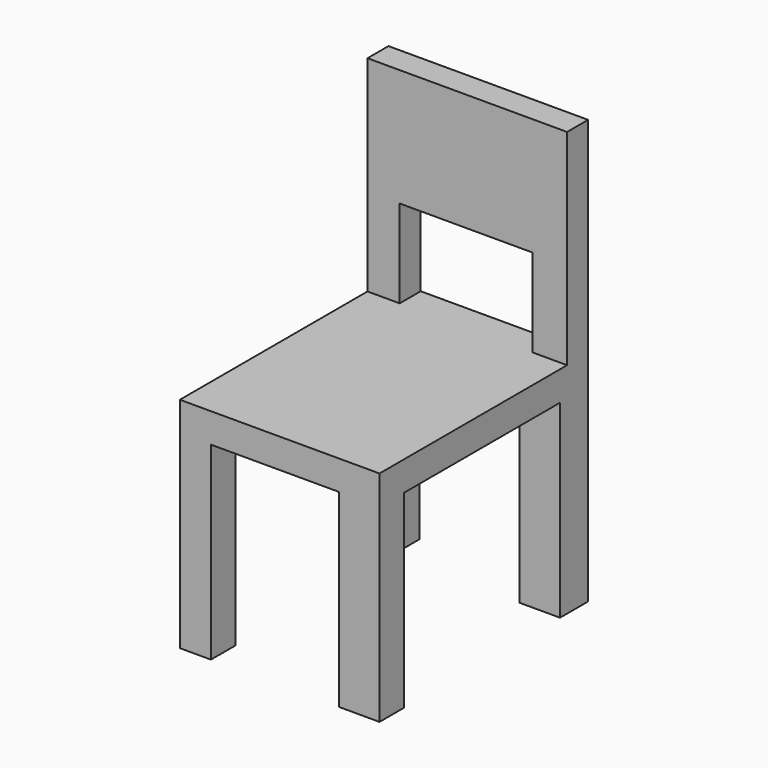
from build123d import *

# Parameters (mm, degrees)
F0_W     = 86.1037485301
F0_H     = 112.4806329608
F1_DEPTH = 12.7
F2_W     = 13.9083378017
F2_H     = 11.3344117999
F2_W_2   = 14.853797853
F3_DEPTH = 88.5675344616
F4_W     = 17.5688937306
F4_H     = 13.3278891444
F4_H_2   = 15.1476562023
F4_W_2   = 13.3936516941
F5_DEPTH = 71.4913029224
F6_W     = 11.3344117999
F6_H     = 50.6459615797
F7_DEPTH = 57.3416128755
F8_DEPTH = 10.16


with BuildPart() as f1:
    # F0 (on Top) → F1 (new body)
    with BuildSketch(Plane.XY):
        with Locations((4.4093746692, -4.878398031)):
            Rectangle(F0_W, F0_H)
    extrude(amount=F1_DEPTH)

    # F2 (on face) → F3 (join)
    with BuildSketch(Plane.XY.offset(12.7)):
        with Locations((-31.688330695, 45.6947125494)):
            Rectangle(F2_W, F2_H)
        with Locations((40.0343500078, 45.6947125494)):
            Rectangle(F2_W_2, F2_H)
    extrude(amount=F3_DEPTH)

    # F4 (on face) → F5 (join)
    with BuildSketch(Plane(origin=(0, 0, 0), x_dir=(1, 0, 0), z_dir=(0, 0, -1))):
        with Locations((38.6768020689, 54.4547699392)):
            Rectangle(F4_W, F4_H)
        with Locations((38.6768020689, -43.7880903482)):
            Rectangle(F4_W, F4_H_2)
        with Locations((-31.9456737489, -43.7880903482)):
            Rectangle(F4_W_2, F4_H_2)
        with Locations((-31.9456737489, 54.4547699392)):
            Rectangle(F4_W_2, F4_H)
    extrude(amount=F5_DEPTH)

    # F6 (on face) → F7 (join, through all)
    with BuildSketch(Plane.YZ.offset(-24.7341617942)):
        with Locations((45.6947125494, 75.9445536718)):
            Rectangle(F6_W, F6_H)
    extrude(amount=F7_DEPTH)

    # F8 (add): faces of the model
    f8_faces = [f1.faces().sort_by_distance(p)[0] for p in [
        (-31.9456737489, -54.4547699392, -71.4913029224),
        (38.6768020689, -54.4547699392, -71.4913029224),
        (38.6768020689, 43.7880903482, -71.4913029224),
        (-31.9456737489, 43.7880903482, -71.4913029224),
        (-31.9456737489, -54.4547699392, -71.4913029224),
        (38.6768020689, -54.4547699392, -71.4913029224),
        (38.6768020689, 43.7880903482, -71.4913029224),
        (-31.9456737489, 43.7880903482, -71.4913029224),
        (-31.9456737489, -54.4547699392, -71.4913029224),
        (38.6768020689, -54.4547699392, -71.4913029224),
        (38.6768020689, 43.7880903482, -71.4913029224),
        (-31.9456737489, 43.7880903482, -71.4913029224),
        (-31.9456737489, -54.4547699392, -71.4913029224),
        (38.6768020689, -54.4547699392, -71.4913029224),
        (38.6768020689, 43.7880903482, -71.4913029224),
        (-31.9456737489, 43.7880903482, -71.4913029224),
    ]]
    extrude(f8_faces, amount=F8_DEPTH)


solid = f1.part
